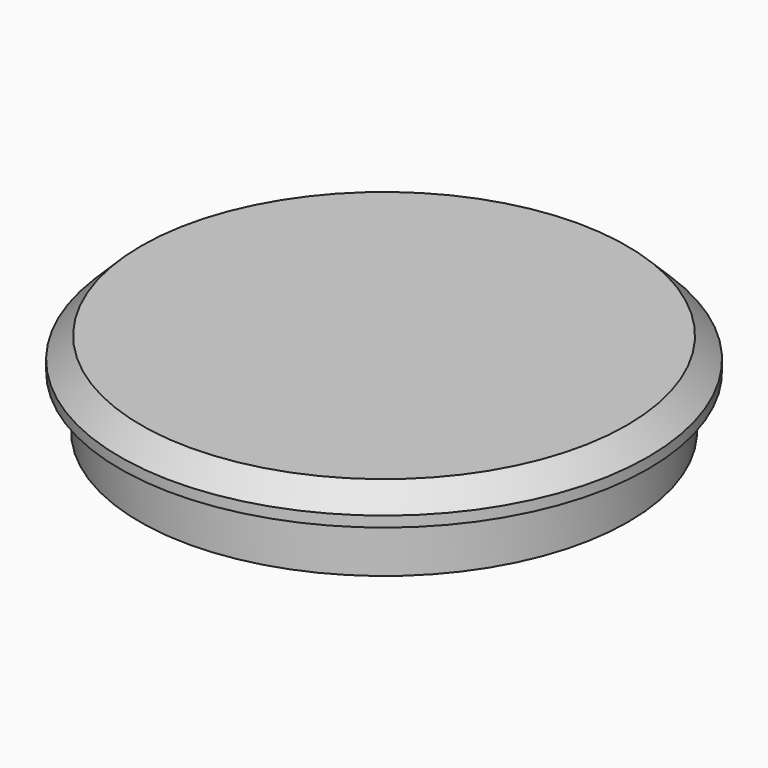
from build123d import *

# Parameters (mm, degrees)
SKETCH_R        = 23.15
PAD_DEPTH       = 5
SKETCH001_R     = 25
PAD001_DEPTH    = 3
CHAMFER_SIZE    = 2
SKETCH002_R     = 22
POCKET_DEPTH    = 6
CHAMFER001_SIZE = 2


with BuildPart() as part:
    # Sketch → Pad (new body)
    with BuildSketch(Plane.XY):
        Circle(SKETCH_R)
    extrude(amount=PAD_DEPTH)

    # Sketch001 (on Face3 of Pad) → Pad001 (join)
    with BuildSketch(Plane.XY.offset(5)):
        Circle(SKETCH001_R)
    extrude(amount=PAD001_DEPTH)

    # Chamfer
    chamfer_edges = [part.edges().sort_by_distance(p)[0] for p in [
        (-25, 0, 8),
    ]]
    chamfer(chamfer_edges, length=CHAMFER_SIZE)

    # Sketch002 (on Face6 of Chamfer) → Pocket (cut)
    with BuildSketch(Plane(origin=(0, 0, 0), x_dir=(1, 0, 0), z_dir=(0, 0, -1))):
        Circle(SKETCH002_R)
    extrude(amount=-POCKET_DEPTH, mode=Mode.SUBTRACT)

    # Chamfer001
    chamfer001_edges = [part.edges().sort_by_distance(p)[0] for p in [
        (-22, 0, 6),
    ]]
    chamfer(chamfer001_edges, length=CHAMFER001_SIZE)


with BuildPart() as part_1:
    # Body placement: moved
    add(part.part.moved(Location((0, 0, -15))))


solid = part_1.part
